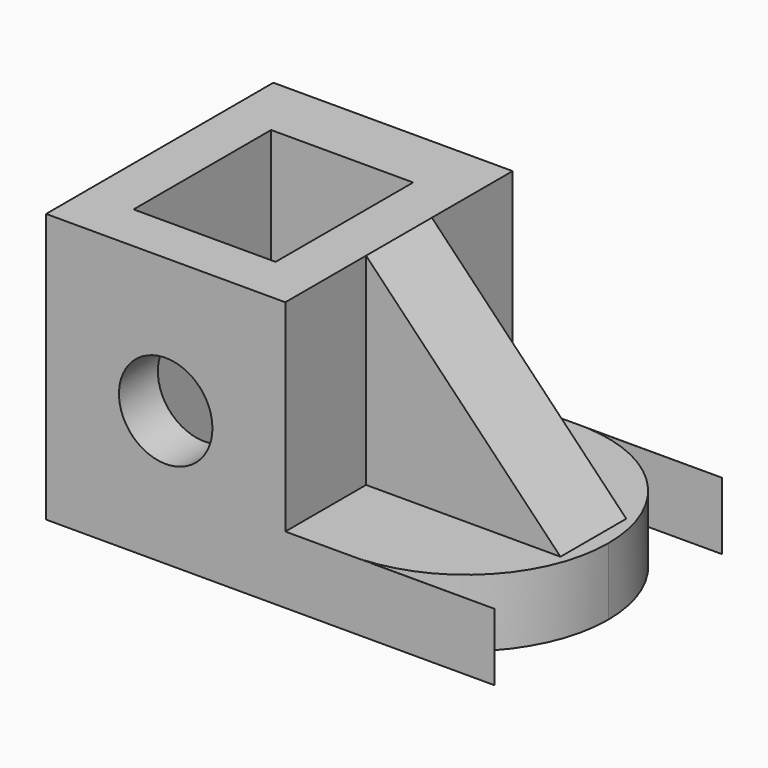
from build123d import *

# Parameters (mm, degrees)
F0_R      = 12.5
F1_DEPTH  = 76
F2_W      = 38
F2_H      = 46
F3_DEPTH  = 177
F5_DEPTH  = 67
F6_DEPTH  = 65
F7_W      = 51.9999994738
F7_H      = 11
F8_DEPTH  = 54
F10_DEPTH = 64


with BuildPart() as f1:
    # F0 (on Front) → F1 (new body)
    with BuildSketch(Plane.XZ):
        Polygon((-120, -10.9966229647), (0, -10.9966229647), (0, 7.0033770353), (-56, 7.0033770353), (-56, 61.0033770353), (-120, 61.0033770353), align=None)
        with Locations((-88, 25.0033770353)):
            Circle(F0_R, mode=Mode.SUBTRACT)
    extrude(amount=-F1_DEPTH)

    # F2 (on face) → F3 (cut)
    with BuildSketch(Plane.XY.offset(61.0033770353)):
        with Locations((-88, 36)):
            Rectangle(F2_W, F2_H)
    extrude(amount=-F3_DEPTH, mode=Mode.SUBTRACT)

    # F4 (on face) → F5 (cut)
    with BuildSketch(Plane.XY.offset(7.0033770353)):
        with BuildLine():
            ThreePointArc((-36.0197160629, 75.9483659138), (-10.4386975125, 64.1605543748), (0, 38))
            Line((0, 38), (0, 76))
            Line((0, 76), (-36.0197160629, 75.9483659138))
        make_face()
    extrude(amount=-F5_DEPTH, mode=Mode.SUBTRACT)

    # F4 (on face) → F6 (cut)
    with BuildSketch(Plane.XY.offset(7.0033770353)):
        with BuildLine():
            ThreePointArc((-36.0197160629, 75.9483659138), (-10.4386975125, 64.1605543748), (0, 38))
            Line((0, 38), (0, 76))
            Line((0, 76), (-36.0197160629, 75.9483659138))
        make_face()
        with BuildLine():
            ThreePointArc((0, 38), (-10.3625564741, 11.9198980955), (-35.7985113343, 0.0638240244))
            Line((-35.7985113343, 0.0638240244), (0, 0))
            Line((0, 0), (0, 38))
        make_face()
    extrude(amount=-F6_DEPTH, mode=Mode.SUBTRACT)

    # F7 (on face) → F8 (join)
    with BuildSketch(Plane.XY.offset(7.0033770353)):
        with Locations((-30.0000002631, 32.5063240244)):
            Rectangle(F7_W, F7_H)
        with Locations((-30.0000002631, 43.5063240244)):
            Rectangle(F7_W, F7_H)
    extrude(amount=F8_DEPTH)

    # F9 (on face) → F10 (cut)
    with BuildSketch(Plane.XZ.offset(-27.0063240244)):
        Polygon((-56, 61.0033770353), (-4.0000005262, 7.0033770353), (-4.0000005262, 61.0033770353), align=None)
    extrude(amount=-F10_DEPTH, mode=Mode.SUBTRACT)


solid = f1.part
